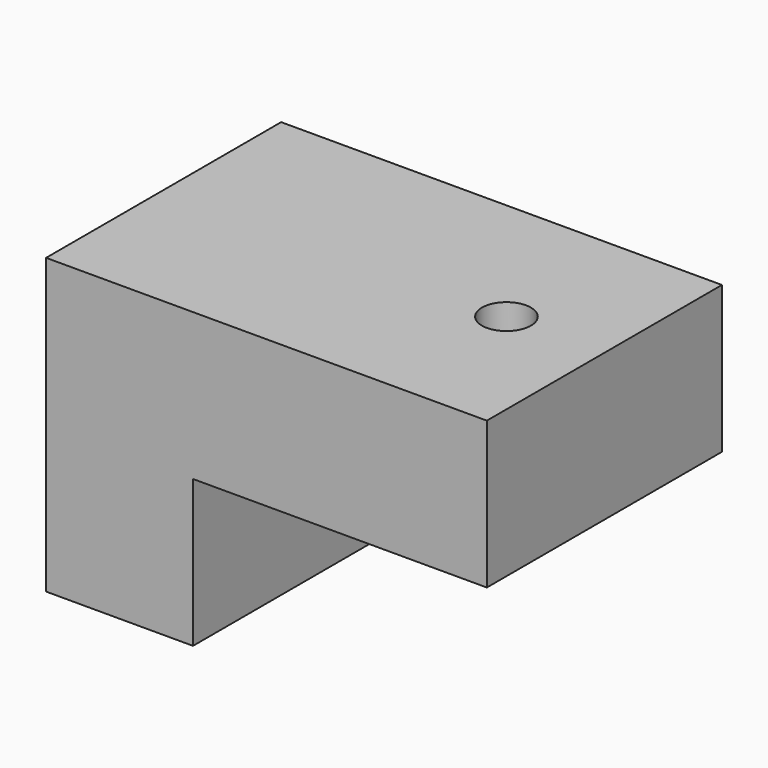
from build123d import *

# Parameters (mm, degrees)
F1_DEPTH = 3
F2_W     = 3
F2_H     = 6
F3_DEPTH = 3


with BuildPart() as f1:
    # F0 (on Top) → F1 (new body)
    with BuildSketch(Plane.XY):
        with BuildLine():
            Line((0, 3), (0, 0))
            Line((0, 0), (9, 0))
            Line((9, 0), (9, 3))
            Line((9, 3), (7.5, 3))
            ThreePointArc((7.5, 3), (7, 2.5), (6.5, 3))
            Line((6.5, 3), (0, 3))
        make_face()
        with BuildLine():
            Line((0, 6), (0, 3))
            Line((0, 3), (6.5, 3))
            ThreePointArc((6.5, 3), (7, 3.5), (7.5, 3))
            Line((7.5, 3), (9, 3))
            Line((9, 3), (9, 6))
            Line((9, 6), (0, 6))
        make_face()
    extrude(amount=F1_DEPTH)

    # F2 (on Top) → F3 (join)
    with BuildSketch(Plane.XY):
        with Locations((1.5, 3)):
            Rectangle(F2_W, F2_H)
    extrude(amount=-F3_DEPTH)


solid = f1.part
